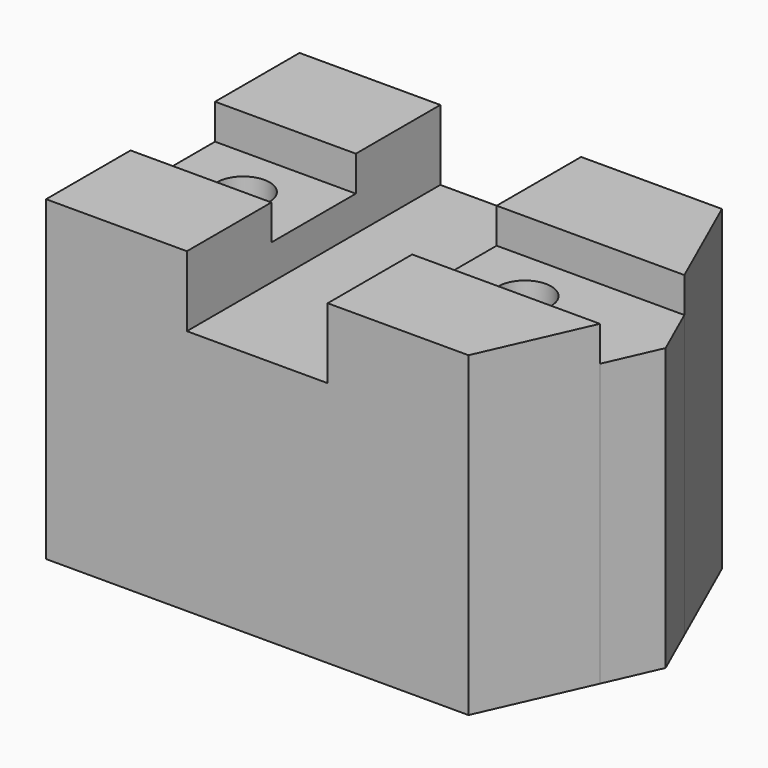
from build123d import *

# Parameters (mm, degrees)
F0_W     = 50.8
F0_H     = 38.1
F0_R     = 9.525
F1_DEPTH = 88.9
F2_DEPTH = 25.4
F3_DEPTH = 12.7


with BuildPart() as f1:
    # F0 (on Top) → F1 (new body)
    with BuildSketch(Plane.XY):
        with Locations((25.4, 95.25)):
            Rectangle(F0_W, F0_H)
        with Locations((25.4, 57.15)):
            Rectangle(F0_W, F0_H)
        with Locations((25.4, 57.15)):
            Circle(F0_R, mode=Mode.SUBTRACT)
        with Locations((25.4, 19.05)):
            Rectangle(F0_W, F0_H)
        Polygon((101.6, 114.3), (50.8, 114.3), (50.8, 76.2), (50.8, 38.1), (50.8, 0), (101.6, 0), (101.6, 38.1), (101.6, 76.2), align=None)
        Polygon((152.4, 114.3), (101.6, 114.3), (101.6, 76.2), (169.3333333333, 76.2), align=None)
        Polygon((169.3333333333, 76.2), (101.6, 76.2), (101.6, 38.1), (169.3333333333, 38.1), (177.8, 57.15), align=None)
        with Locations((127, 57.15)):
            Circle(F0_R, mode=Mode.SUBTRACT)
        Polygon((169.3333333333, 38.1), (101.6, 38.1), (101.6, 0), (152.4, 0), align=None)
    extrude(amount=-F1_DEPTH)

    # F0 (on Top) → F2 (join)
    with BuildSketch(Plane.XY):
        with Locations((25.4, 95.25)):
            Rectangle(F0_W, F0_H)
        with Locations((25.4, 19.05)):
            Rectangle(F0_W, F0_H)
        Polygon((152.4, 114.3), (101.6, 114.3), (101.6, 76.2), (169.3333333333, 76.2), align=None)
        Polygon((169.3333333333, 38.1), (101.6, 38.1), (101.6, 0), (152.4, 0), align=None)
    extrude(amount=F2_DEPTH)

    # F0 (on Top) → F3 (join)
    with BuildSketch(Plane.XY):
        with Locations((25.4, 57.15)):
            Rectangle(F0_W, F0_H)
        with Locations((25.4, 57.15)):
            Circle(F0_R, mode=Mode.SUBTRACT)
        Polygon((169.3333333333, 76.2), (101.6, 76.2), (101.6, 38.1), (169.3333333333, 38.1), (177.8, 57.15), align=None)
        with Locations((127, 57.15)):
            Circle(F0_R, mode=Mode.SUBTRACT)
    extrude(amount=F3_DEPTH)


solid = f1.part
